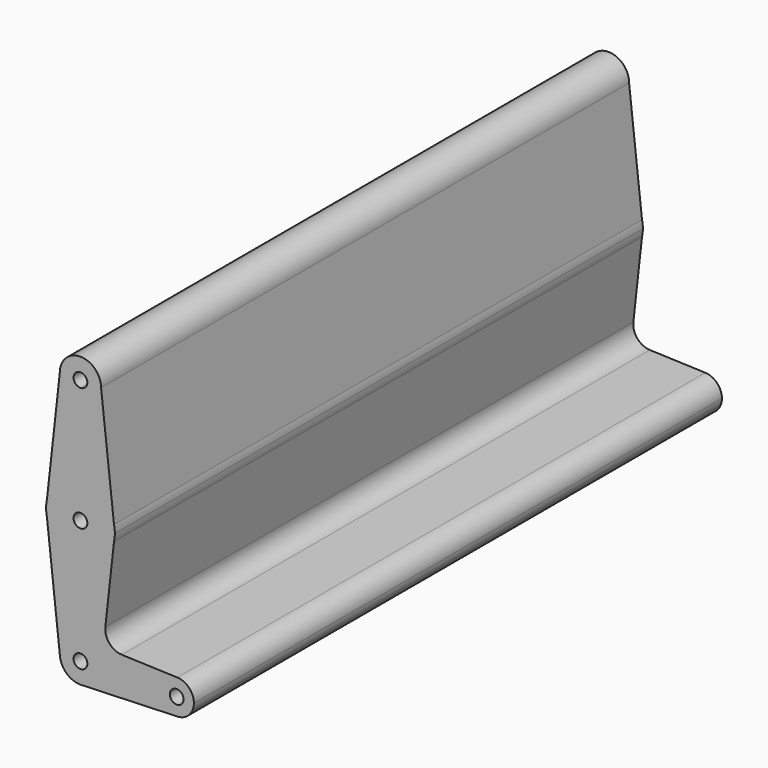
from build123d import *

# Parameters (mm, degrees)
F0_R     = 3.175
F1_DEPTH = 304.8


with BuildPart() as f1:
    # F0 (on Front) → F1 (new body)
    with BuildSketch(Plane.XZ):
        with BuildLine():
            ThreePointArc((15.487804878, 3.4847560976), (9.9170338799, 12.3962923499), (0, 15.875))
            ThreePointArc((0, 15.875), (-9.9171272209, 12.3962176766), (-15.4878573551, 3.4845228579))
            Line((-15.4878573551, 3.4845228579), (-15.875, 0))
            Line((-15.875, 0), (-15.494709029, -3.4539277796))
            ThreePointArc((-15.494709029, -3.4539277796), (-0.0237544409, -15.8749822276), (15.4843031345, -3.5002830512))
            Line((15.4843031345, -3.5002830512), (15.875, 0))
            Line((15.875, 0), (15.487804878, 3.4847560976))
        make_face()
        with BuildLine():
            ThreePointArc((3.175, 0), (-2.2450640303, -2.2450640303), (0, 3.175))
            ThreePointArc((0, 3.175), (2.2450640303, 2.2450640303), (3.175, 0))
        make_face(mode=Mode.SUBTRACT)
        with BuildLine():
            ThreePointArc((-15.4878573551, 3.4845228579), (-9.9171272209, 12.3962176766), (0, 15.875))
            Line((0, 15.875), (0, 47.625))
            ThreePointArc((0, 47.625), (-6.7365808144, 50.4161969192), (-9.5249991899, 57.1539283083))
            Line((-9.5249991899, 57.1539283083), (-15.4878573551, 3.4845228579))
        make_face()
        with BuildLine():
            Line((0, 47.625), (0, 15.875))
            ThreePointArc((0, 15.875), (9.9170338799, 12.3962923499), (15.487804878, 3.4847560976))
            Line((15.487804878, 3.4847560976), (9.525, 57.15))
            ThreePointArc((9.525, 57.15), (6.7351920908, 50.4148079092), (0, 47.625))
        make_face()
        with BuildLine():
            ThreePointArc((-9.5249991899, 57.1539283083), (-6.7365808144, 50.4161969192), (0, 47.625))
            ThreePointArc((0, 47.625), (6.7351920908, 50.4148079092), (9.525, 57.15))
            ThreePointArc((9.525, 57.15), (0.0019641542, 66.6749997975), (-9.5249991899, 57.1539283083))
        make_face()
        with BuildLine():
            ThreePointArc((3.175, 57.15), (2.2450640303, 54.9049359697), (0, 53.975))
            ThreePointArc((0, 53.975), (-2.2450640303, 59.3950640303), (3.175, 57.15))
        make_face(mode=Mode.SUBTRACT)
        with BuildLine():
            ThreePointArc((15.875, 0), (15.7779042879, 1.7531004764), (15.487804878, 3.4847560976))
            Line((15.487804878, 3.4847560976), (15.875, 0))
        make_face()
        with BuildLine():
            Line((-15.875, 0), (-15.4878573551, 3.4845228579))
            ThreePointArc((-15.4878573551, 3.4845228579), (-15.7779174879, 1.7529816724), (-15.875, 0))
        make_face()
        with BuildLine():
            Line((15.487804878, -3.4847560976), (15.875, 0))
            Line((15.875, 0), (15.4843031345, -3.5002830512))
            ThreePointArc((15.4843031345, -3.5002830512), (15.4860559523, -3.4925200132), (15.487804878, -3.4847560976))
        make_face()
        with BuildLine():
            ThreePointArc((15.487804878, -3.4847560976), (15.7779042879, -1.7531004764), (15.875, 0))
            Line((15.875, 0), (15.487804878, -3.4847560976))
        make_face()
        with BuildLine():
            Line((-15.494709029, -3.4539277796), (-15.875, 0))
            ThreePointArc((-15.875, 0), (-15.779640852, -1.7374002367), (-15.494709029, -3.4539277796))
        make_face()
        with BuildLine():
            Line((11.4880993899, -39.4821054907), (15.487804878, -3.4847560976))
            ThreePointArc((15.487804878, -3.4847560976), (15.4860559523, -3.4925200132), (15.4843031345, -3.5002830512))
            ThreePointArc((15.4843031345, -3.5002830512), (-0.0237544409, -15.8749822276), (-15.494709029, -3.4539277796))
            Line((-15.494709029, -3.4539277796), (-9.4677845112, -58.192440142))
            ThreePointArc((-9.4677845112, -58.192440142), (-0.5220045646, -47.6393146286), (9.525, -57.15))
            ThreePointArc((9.525, -57.15), (6.9705567315, -63.6412990883), (0.6773435479, -66.650885786))
            Line((0.6773435479, -66.650885786), (44.7324052746, -65.0824746146))
            ThreePointArc((44.7324052746, -65.0824746146), (36.5125, -57.15), (44.7324052746, -49.2175253854))
            Line((44.7324052746, -49.2175253854), (19.1068167343, -48.3052247833))
            ThreePointArc((19.1068167343, -48.3052247833), (13.3723581246, -45.5559788605), (11.4880993899, -39.4821054907))
        make_face()
        with BuildLine():
            ThreePointArc((9.525, -57.15), (-0.5220045646, -47.6393146286), (-9.4677845112, -58.192440142))
            ThreePointArc((-9.4677845112, -58.192440142), (-6.3559571524, -64.2441830873), (0, -66.675))
            Line((0, -66.675), (0.6773435479, -66.650885786))
            ThreePointArc((0.6773435479, -66.650885786), (6.9705567315, -63.6412990883), (9.525, -57.15))
        make_face()
        with Locations((0, -57.15)):
            Circle(F0_R, mode=Mode.SUBTRACT)
        with BuildLine():
            Line((0.6773435479, -66.650885786), (0, -66.675))
            ThreePointArc((0, -66.675), (0.3388863295, -66.6689695375), (0.6773435479, -66.650885786))
        make_face()
        with BuildLine():
            ThreePointArc((52.3875, -57.15), (50.1616327839, -51.6380895153), (44.7324052746, -49.2175253854))
            ThreePointArc((44.7324052746, -49.2175253854), (36.5125, -57.15), (44.7324052746, -65.0824746146))
            ThreePointArc((44.7324052746, -65.0824746146), (50.1616327839, -62.6619104847), (52.3875, -57.15))
        make_face()
        with Locations((44.45, -57.15)):
            Circle(F0_R, mode=Mode.SUBTRACT)
    extrude(amount=F1_DEPTH)


solid = f1.part
